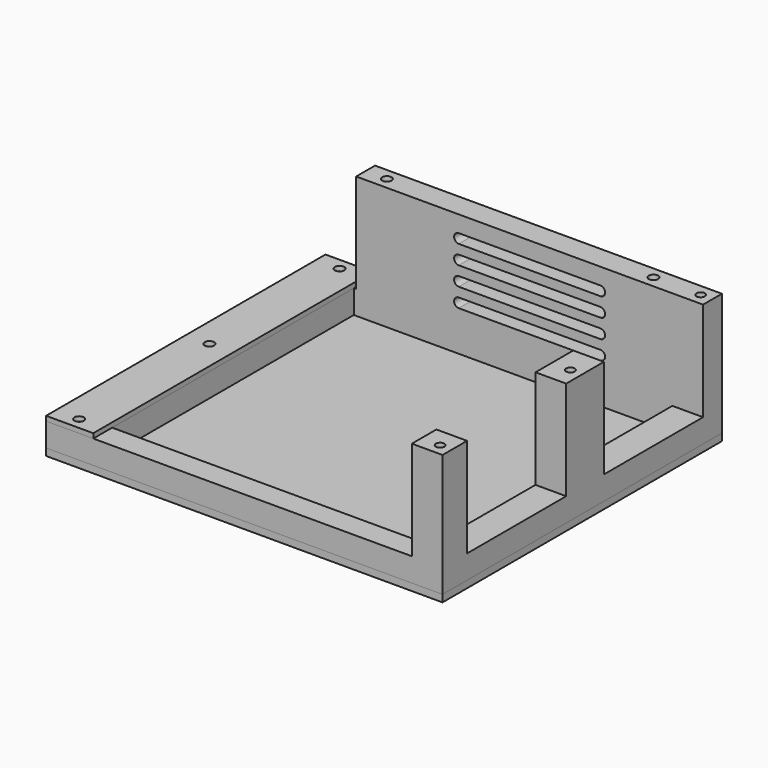
from build123d import *

# Parameters (mm, degrees)
SKETCH_W        = 168
SKETCH_H        = 148
SKETCH_W_2      = 135
SKETCH_H_2      = 128
PAD_DEPTH       = 10
SKETCH001_W     = 147
SKETCH001_H     = 10
SKETCH001_W_2   = 13
SKETCH001_H_2   = 13
SKETCH001_H_3   = 20
PAD001_DEPTH    = 42
SKETCH002_R     = 1.8
POCKET_DEPTH    = 55
SKETCH003_R     = 3
POCKET001_DEPTH = 4
SKETCH004_R     = 3
POCKET002_DEPTH = 6
SKETCH005_R     = 2
POCKET003_DEPTH = 7
SKETCH006_R     = 2
POCKET004_DEPTH = 7
POCKET005_DEPTH = 10
SKETCH008_W     = 20
SKETCH008_H     = 148
SKETCH008_R     = 2
PAD002_DEPTH    = 2
SKETCH009_W     = 168
SKETCH009_H     = 148
SKETCH009_R     = 2
PAD003_DEPTH    = 3
SKETCH010_W     = 20
SKETCH010_H     = 148
SKETCH010_R     = 2
PAD004_DEPTH    = 2


with BuildPart() as body:
    # Sketch → Pad (new body)
    with BuildSketch(Plane.XY):
        with Locations((84, 74)):
            Rectangle(SKETCH_W, SKETCH_H)
        with Locations((87.5, 74)):
            Rectangle(SKETCH_W_2, SKETCH_H_2, mode=Mode.SUBTRACT)
    extrude(amount=PAD_DEPTH)

    # Sketch001 (on Face10 of Pad) → Pad001 (join)
    with BuildSketch(Plane.XY.offset(10)):
        with Locations((94.5, 143)):
            Rectangle(SKETCH001_W, SKETCH001_H)
        with Locations((161.5, 6.5)):
            Rectangle(SKETCH001_W_2, SKETCH001_H_2)
        with Locations((161.5, 75.5)):
            Rectangle(SKETCH001_W_2, SKETCH001_H_3)
    extrude(amount=PAD001_DEPTH)

    # Sketch002 (on Face4 of Pad001) → Pocket (cut)
    with BuildSketch(Plane(origin=(0, 0, 0), x_dir=(1, 0, 0), z_dir=(0, 0, -1))):
        with Locations((10, -143)):
            Circle(SKETCH002_R)
        with Locations((10, -74)):
            Circle(SKETCH002_R)
        with Locations((10, -5)):
            Circle(SKETCH002_R)
        with Locations((163, -143)):
            Circle(SKETCH002_R)
        with Locations((163, -74)):
            Circle(SKETCH002_R)
        with Locations((163, -5)):
            Circle(SKETCH002_R)
    extrude(amount=-POCKET_DEPTH, mode=Mode.SUBTRACT)

    # Sketch003 (on Face4 of Pocket) → Pocket001 (cut)
    with BuildSketch(Plane(origin=(0, 0, 0), x_dir=(1, 0, 0), z_dir=(0, 0, -1))):
        with Locations((10, -5)):
            Circle(SKETCH003_R)
        with Locations((10, -74)):
            Circle(SKETCH003_R)
        with Locations((10, -143)):
            Circle(SKETCH003_R)
    extrude(amount=-POCKET001_DEPTH, mode=Mode.SUBTRACT)

    # Sketch004 (on Face4 of Pocket001) → Pocket002 (cut)
    with BuildSketch(Plane(origin=(0, 0, 0), x_dir=(1, 0, 0), z_dir=(0, 0, -1))):
        with Locations((163, -5)):
            Circle(SKETCH004_R)
        with Locations((163, -74)):
            Circle(SKETCH004_R)
        with Locations((163, -143)):
            Circle(SKETCH004_R)
    extrude(amount=-POCKET002_DEPTH, mode=Mode.SUBTRACT)

    # Sketch005 (on Face4 of Pocket002) → Pocket003 (cut)
    with BuildSketch(Plane(origin=(0, 0, 0), x_dir=(1, 0, 0), z_dir=(0, 0, -1))):
        with Locations((10, -25)):
            Circle(SKETCH005_R)
        with Locations((163, -25)):
            Circle(SKETCH005_R)
        with Locations((10, -123)):
            Circle(SKETCH005_R)
        with Locations((163, -123)):
            Circle(SKETCH005_R)
    extrude(amount=-POCKET003_DEPTH, mode=Mode.SUBTRACT)

    # Sketch006 (on Face39 of Pocket003) → Pocket004 (cut)
    with BuildSketch(Plane.XY.offset(52)):
        with Locations((30, 143)):
            Circle(SKETCH006_R)
        with Locations((143, 143)):
            Circle(SKETCH006_R)
    extrude(amount=-POCKET004_DEPTH, mode=Mode.SUBTRACT)

    # Sketch007 (on Face33 of Pocket004) → Pocket005 (cut)
    with BuildSketch(Plane(origin=(0, 148, 0), x_dir=(-1, 0, 0), z_dir=(0, 1, 0))):
        with BuildLine():
            ThreePointArc((-124.5, 45), (-126.5, 43), (-124.5, 41))
            Line((-124.5, 41), (-64.5, 41))
            ThreePointArc((-64.5, 41), (-62.5, 43), (-64.5, 45))
            Line((-124.5, 45), (-64.5, 45))
        make_face()
        with BuildLine():
            ThreePointArc((-124.5, 37), (-126.5, 35), (-124.5, 33))
            Line((-124.5, 33), (-64.5, 33))
            ThreePointArc((-64.5, 33), (-62.5, 35), (-64.5, 37))
            Line((-124.5, 37), (-64.5, 37))
        make_face()
        with BuildLine():
            ThreePointArc((-124.5, 29), (-126.5, 27), (-124.5, 25))
            Line((-124.5, 25), (-64.5, 25))
            ThreePointArc((-64.5, 25), (-62.5, 27), (-64.5, 29))
            Line((-124.5, 29), (-64.5, 29))
        make_face()
        with BuildLine():
            ThreePointArc((-124.5, 21), (-126.5, 19), (-124.5, 17))
            Line((-124.5, 17), (-64.5, 17))
            ThreePointArc((-64.5, 17), (-62.5, 19), (-64.5, 21))
            Line((-124.5, 21), (-64.5, 21))
        make_face()
    extrude(amount=-POCKET005_DEPTH, mode=Mode.SUBTRACT)

    # Sketch008 (on Face5 of Pocket005) → Pad002 (join)
    with BuildSketch(Plane.XY.offset(10)):
        with Locations((10, 74)):
            Rectangle(SKETCH008_W, SKETCH008_H)
        with Locations((10, 5)):
            Circle(SKETCH008_R, mode=Mode.SUBTRACT)
        with Locations((10, 74)):
            Circle(SKETCH008_R, mode=Mode.SUBTRACT)
        with Locations((10, 143)):
            Circle(SKETCH008_R, mode=Mode.SUBTRACT)
    extrude(amount=PAD002_DEPTH)


with BuildPart() as body001:
    # Sketch009 → Pad003 (new body)
    with BuildSketch(Plane.XY):
        with Locations((84, 74)):
            Rectangle(SKETCH009_W, SKETCH009_H)
        with Locations((10, 25)):
            Circle(SKETCH009_R, mode=Mode.SUBTRACT)
        with Locations((163, 25)):
            Circle(SKETCH009_R, mode=Mode.SUBTRACT)
        with Locations((10, 123)):
            Circle(SKETCH009_R, mode=Mode.SUBTRACT)
        with Locations((163, 123)):
            Circle(SKETCH009_R, mode=Mode.SUBTRACT)
    extrude(amount=PAD003_DEPTH)


with BuildPart() as body001_1:
    # Body001 placement: moved
    add(body001.part.moved(Location((0, 0, -3))))


with BuildPart() as body002:
    # Sketch010 → Pad004 (new body)
    with BuildSketch(Plane.XY.offset(10)):
        with Locations((10, 74)):
            Rectangle(SKETCH010_W, SKETCH010_H)
        with Locations((10, 5)):
            Circle(SKETCH010_R, mode=Mode.SUBTRACT)
        with Locations((10, 74)):
            Circle(SKETCH010_R, mode=Mode.SUBTRACT)
        with Locations((10, 143)):
            Circle(SKETCH010_R, mode=Mode.SUBTRACT)
    extrude(amount=PAD004_DEPTH)


solid = Compound([body.part, body001_1.part, body002.part])
